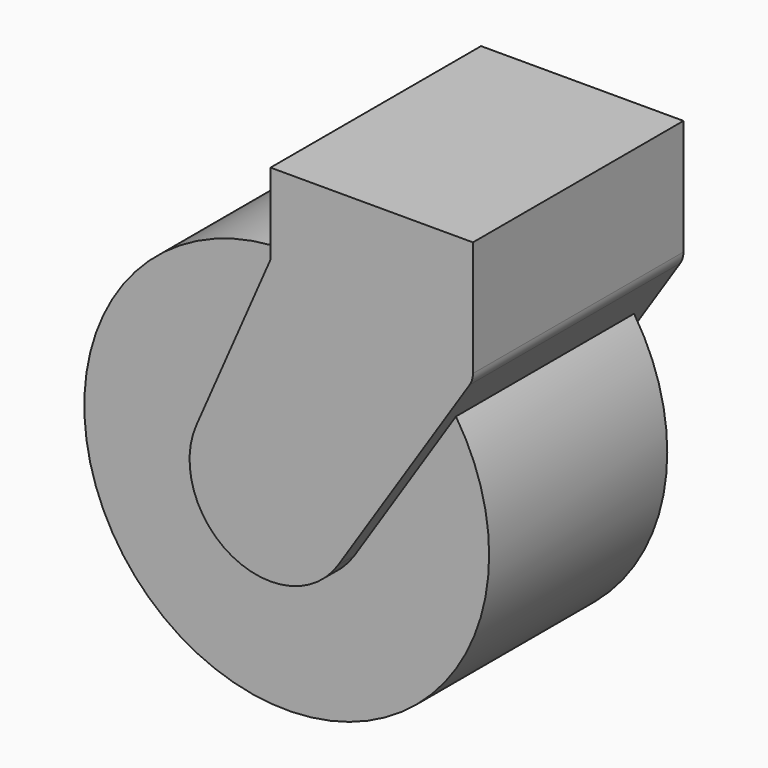
from build123d import *

# Parameters (mm, degrees)
F1_DEPTH = 65
F2_R     = 50
F3_DEPTH = 55


with BuildPart() as f1:
    # F0 (on Front) → F1 (new body)
    with BuildSketch(Plane.XZ):
        with BuildLine():
            Line((0, 50), (-18.330303, 8))
            ThreePointArc((-18.330303, 8), (-9.499833, -17.599806), (16.746854, -10.933567))
            Line((16.746854, -10.933567), (49.186713, 38.754296))
            ThreePointArc((49.186713, 38.754296), (49.792367, 40.061779), (50, 41.487688))
            Line((50, 41.487688), (50, 70))
            Line((50, 70), (0, 70))
            Line((0, 70), (0, 50))
        make_face()
    extrude(amount=F1_DEPTH)


with BuildPart() as f3:
    # F2 (on Front) → F3 (new body)
    with BuildSketch(Plane.XZ):
        Circle(F2_R)
    extrude(amount=F3_DEPTH)


with BuildPart() as f3_1:
    # F4: moved
    add(f3.part.moved(Location((0, -5, 0))))


solid = Compound([f1.part, f3_1.part])
